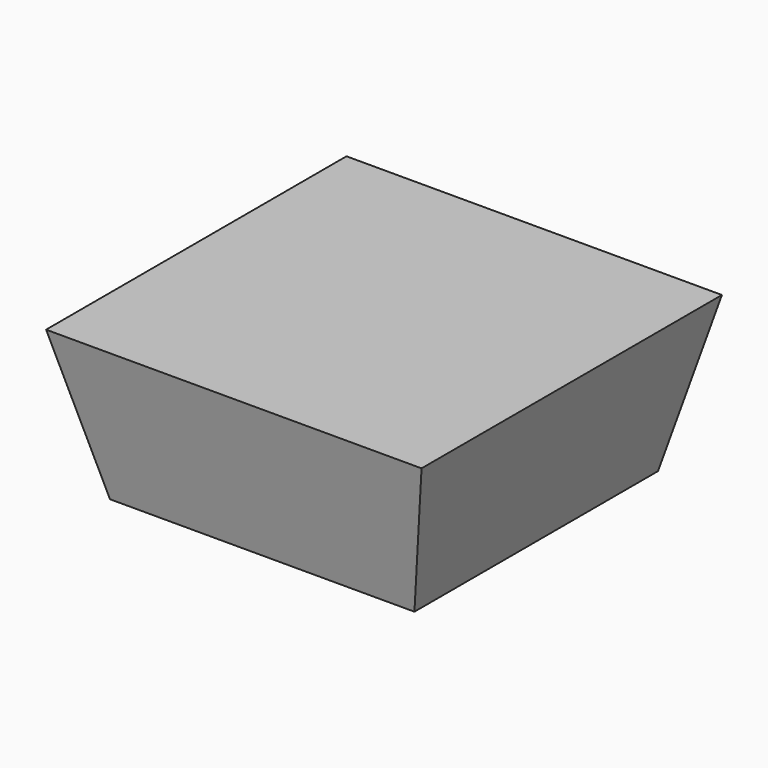
from build123d import *

# Parameters (mm, degrees)
F2_W = 300
F2_H = 300
F0_W = 370
F0_H = 370


with BuildPart() as f3:
    # F2 (on offset) → F3 section 0
    with BuildSketch(Plane.XY.offset(-150)):
        with Locations((185, 185)):
            Rectangle(F2_W, F2_H)
    # F0 (on Top) → F3 section 1
    with BuildSketch(Plane.XY):
        with Locations((185, 185)):
            Rectangle(F0_W, F0_H)
    loft()


solid = f3.part
